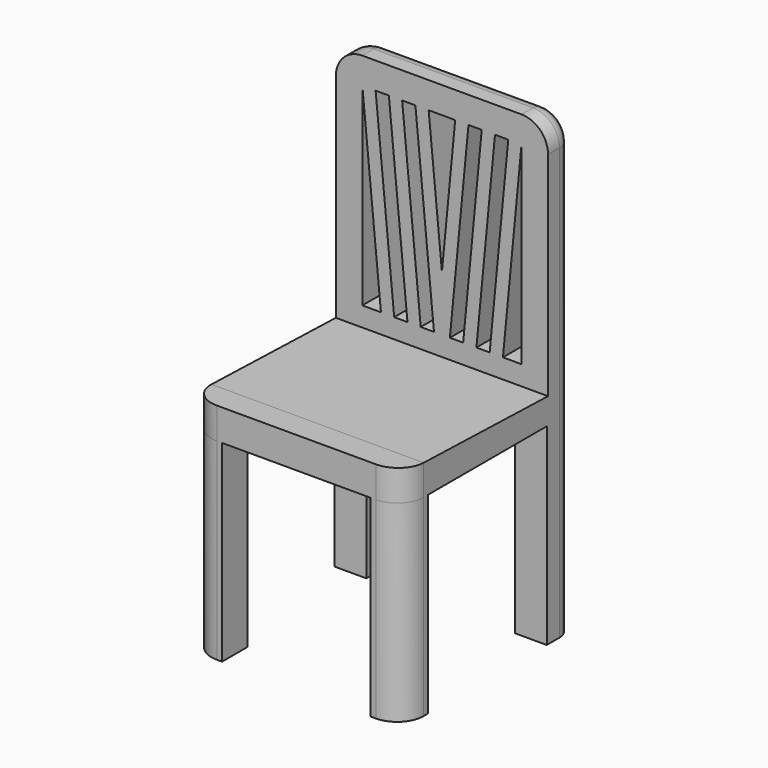
from build123d import *

# Parameters (mm, degrees)
F1_DEPTH  = 6
F2_R      = 5
F3_W      = 40
F3_H      = 5.699848
F4_DEPTH  = 44
F5_R      = 5
F7_DEPTH  = 25
F8_W      = 6
F8_H      = 6
F9_DEPTH  = 36.3
F10_R     = 3
F11_DEPTH = 25
F13_DEPTH = 49.1


with BuildPart() as f1:
    # F0 (on Top) → F1 (new body)
    with BuildSketch(Plane.XY):
        Polygon((-30.455219, 30), (-30.455219, 0), (-30.455219, -10), (9.544781, -10), (9.544781, 30), align=None)
    extrude(amount=F1_DEPTH)

    # F2
    f2_edges = [f1.edges().sort_by_distance(p)[0] for p in [
        (-30.455219, -10, 3),
        (9.544781, -10, 3),
    ]]
    fillet(f2_edges, radius=F2_R)

    # F3 (on face) → F4 (join)
    with BuildSketch(Plane.XY.offset(6)):
        with Locations((-10.455219, 27.150076)):
            Rectangle(F3_W, F3_H)
    extrude(amount=F4_DEPTH)

    # F5
    f5_edges = [f1.edges().sort_by_distance(p)[0] for p in [
        (-30.455219, 27.150076, 50),
        (9.544781, 27.150076, 50),
    ]]
    fillet(f5_edges, radius=F5_R)

    # F6 (on face) → F7 (cut)
    with BuildSketch(Plane.XZ.offset(-24.300152)):
        Polygon((-21.955219, 8.545761), (-25.455219, 45), (-25.455219, 8.545761), align=None)
        Polygon((-20.455219, 45), (-22.955219, 45), (-19.455219, 8.545761), (-16.955219, 8.545761), align=None)
        Polygon((-15.455219, 45), (-17.955219, 45), (-14.455219, 8.545761), (-11.955219, 8.545761), align=None)
        Polygon((-5.455219, 45), (-8.955219, 8.545761), (-6.455219, 8.545761), (-2.955219, 45), align=None)
        Polygon((-0.455219, 45), (-3.955219, 8.545761), (-1.455219, 8.545761), (2.044781, 45), align=None)
        Polygon((4.544781, 45), (1.044781, 8.545761), (4.544781, 8.545761), align=None)
    extrude(amount=-F7_DEPTH, mode=Mode.SUBTRACT)

    # F8 (on face) → F9 (join)
    with BuildSketch(Plane(origin=(0, 0, 0), x_dir=(1, 0, 0), z_dir=(0, 0, -1))):
        with BuildLine():
            Line((-30.455219, 5), (-30.455219, 4))
            Line((-30.455219, 4), (-24.455219, 4))
            Line((-24.455219, 4), (-24.455219, 10))
            Line((-24.455219, 10), (-25.455219, 10))
            ThreePointArc((-25.455219, 10), (-28.990753, 8.535534), (-30.455219, 5))
        make_face()
        with BuildLine():
            Line((4.544781, 10), (3.544781, 10))
            Line((3.544781, 10), (3.544781, 4))
            Line((3.544781, 4), (9.544781, 4))
            Line((9.544781, 4), (9.544781, 5))
            ThreePointArc((9.544781, 5), (8.080315, 8.535534), (4.544781, 10))
        make_face()
        with Locations((-27.455219, -27)):
            Rectangle(F8_W, F8_H)
        with Locations((6.544781, -27)):
            Rectangle(F8_W, F8_H)
    extrude(amount=F9_DEPTH)

    # F10
    f10_edges = [f1.edges().sort_by_distance(p)[0] for p in [
        (9.544781, 30, 4.35),
    ]]
    fillet(f10_edges, radius=F10_R)

    # F6 (on face) → F11 (cut)
    with BuildSketch(Plane.XZ.offset(-24.300152)):
        Polygon((-7.955219, 45), (-12.955219, 45), (-10.455219, 18.961258), align=None)
    extrude(amount=-F11_DEPTH, mode=Mode.SUBTRACT)

    # F12 (on face) → F13 (cut)
    with BuildSketch(Plane.YZ.offset(9.544781)):
        Polygon((-5, 6), (-5, 5.73364), (24.300152, 4.866716), (24.300152, 6), align=None)
        Polygon((24.300152, 7.596356), (-13.065776, 5.972288), (-5, 5.73364), (-5, 6), (24.300152, 6), align=None)
    extrude(amount=-F13_DEPTH, mode=Mode.SUBTRACT)


solid = f1.part
